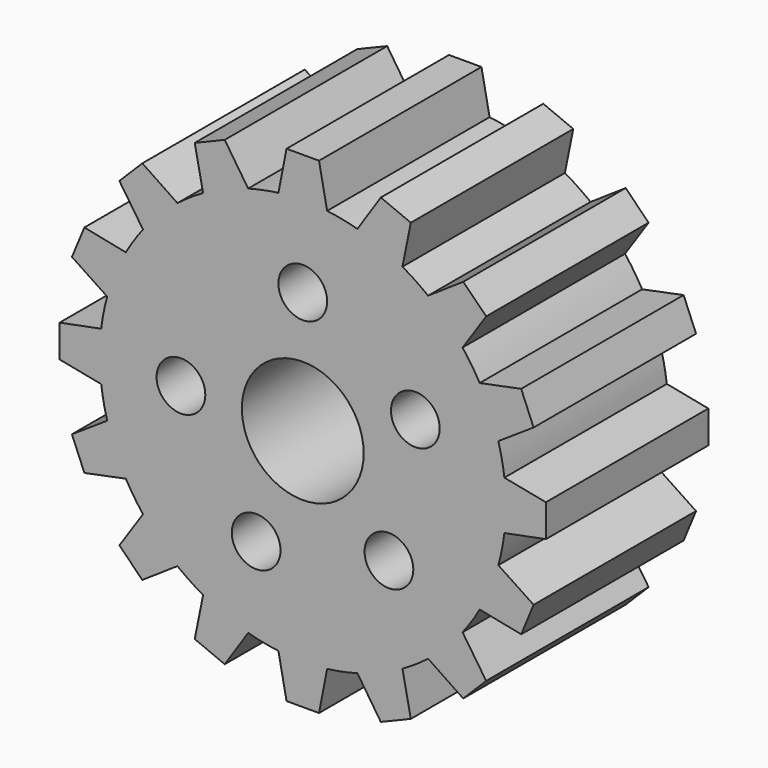
from build123d import *

# Parameters (mm, degrees)
F0_R     = 3
F0_R_2   = 7.5
F1_DEPTH = 25


with BuildPart() as f1:
    # F0 (on Front) → F1 (new body)
    with BuildSketch(Plane.XZ):
        with BuildLine():
            ThreePointArc((24.819347, -3), (24.954796, -1.502717), (25, 0))
            ThreePointArc((25, 0), (24.954796, 1.502717), (24.819347, 3))
            ThreePointArc((24.819347, 3), (24.519632, 4.877258), (24.078137, 6.726314))
            ThreePointArc((24.078137, 6.726314), (23.096988, 9.567086), (21.782037, 12.269592))
            ThreePointArc((21.782037, 12.269592), (20.78674, 13.889256), (19.671249, 15.428608))
            ThreePointArc((19.671249, 15.428608), (17.67767, 17.67767), (15.428608, 19.671249))
            ThreePointArc((15.428608, 19.671249), (13.889256, 20.78674), (12.269592, 21.782037))
            ThreePointArc((12.269592, 21.782037), (9.567086, 23.096988), (6.726314, 24.078137))
            ThreePointArc((6.726314, 24.078137), (4.877258, 24.519632), (3, 24.819347))
            ThreePointArc((3, 24.819347), (0, 25), (-3, 24.819347))
            ThreePointArc((-3, 24.819347), (-4.877258, 24.519632), (-6.726314, 24.078137))
            ThreePointArc((-6.726314, 24.078137), (-9.567086, 23.096988), (-12.269592, 21.782037))
            ThreePointArc((-12.269592, 21.782037), (-13.889256, 20.78674), (-15.428608, 19.671249))
            ThreePointArc((-15.428608, 19.671249), (-17.67767, 17.67767), (-19.671249, 15.428608))
            ThreePointArc((-19.671249, 15.428608), (-20.78674, 13.889256), (-21.782037, 12.269592))
            ThreePointArc((-21.782037, 12.269592), (-23.096988, 9.567086), (-24.078137, 6.726314))
            ThreePointArc((-24.078137, 6.726314), (-24.519632, 4.877258), (-24.819347, 3))
            ThreePointArc((-24.819347, 3), (-25, 0), (-24.819347, -3))
            ThreePointArc((-24.819347, -3), (-24.519632, -4.877258), (-24.078137, -6.726314))
            ThreePointArc((-24.078137, -6.726314), (-23.096988, -9.567086), (-21.782037, -12.269592))
            ThreePointArc((-21.782037, -12.269592), (-20.78674, -13.889256), (-19.671249, -15.428608))
            ThreePointArc((-19.671249, -15.428608), (-17.67767, -17.67767), (-15.428608, -19.671249))
            ThreePointArc((-15.428608, -19.671249), (-13.889256, -20.78674), (-12.269592, -21.782037))
            ThreePointArc((-12.269592, -21.782037), (-9.567086, -23.096988), (-6.726314, -24.078137))
            ThreePointArc((-6.726314, -24.078137), (-4.877258, -24.519632), (-3, -24.819347))
            ThreePointArc((-3, -24.819347), (0, -25), (3, -24.819347))
            ThreePointArc((3, -24.819347), (4.877258, -24.519632), (6.726314, -24.078137))
            ThreePointArc((6.726314, -24.078137), (9.567086, -23.096988), (12.269592, -21.782037))
            ThreePointArc((12.269592, -21.782037), (13.889256, -20.78674), (15.428608, -19.671249))
            ThreePointArc((15.428608, -19.671249), (17.67767, -17.67767), (19.671249, -15.428608))
            ThreePointArc((19.671249, -15.428608), (20.78674, -13.889256), (21.782037, -12.269592))
            ThreePointArc((21.782037, -12.269592), (23.096988, -9.567086), (24.078137, -6.726314))
            ThreePointArc((24.078137, -6.726314), (24.519632, -4.877258), (24.819347, -3))
        make_face()
        with Locations((-15, 0)):
            Circle(F0_R, mode=Mode.SUBTRACT)
        with Locations((-5.740251, -13.858193)):
            Circle(F0_R, mode=Mode.SUBTRACT)
        Circle(F0_R_2, mode=Mode.SUBTRACT)
        with Locations((10.606602, -10.606602)):
            Circle(F0_R, mode=Mode.SUBTRACT)
        with Locations((0, 15)):
            Circle(F0_R, mode=Mode.SUBTRACT)
        with Locations((13.858193, 5.740251)):
            Circle(F0_R, mode=Mode.SUBTRACT)
        with BuildLine():
            ThreePointArc((24.819347, 3), (24.954796, 1.502717), (25, 0))
            ThreePointArc((25, 0), (24.954796, -1.502717), (24.819347, -3))
            Line((24.819347, -3), (29.933259, -2))
            Line((29.933259, -2), (29.933259, 2))
            Line((29.933259, 2), (24.819347, 3))
        make_face()
        with BuildLine():
            ThreePointArc((21.782037, 12.269592), (23.096988, 9.567086), (24.078137, 6.726314))
            Line((24.078137, 6.726314), (28.420092, 9.607203))
            Line((28.420092, 9.607203), (26.889359, 13.302721))
            Line((26.889359, 13.302721), (21.782037, 12.269592))
        make_face()
        with BuildLine():
            Line((28.420092, -9.607203), (24.078137, -6.726314))
            ThreePointArc((24.078137, -6.726314), (23.096988, -9.567086), (21.782037, -12.269592))
            Line((21.782037, -12.269592), (26.889359, -13.302721))
            Line((26.889359, -13.302721), (28.420092, -9.607203))
        make_face()
        with BuildLine():
            ThreePointArc((15.428608, 19.671249), (17.67767, 17.67767), (19.671249, 15.428608))
            Line((19.671249, 15.428608), (22.580224, 19.751797))
            Line((22.580224, 19.751797), (19.751797, 22.580224))
            Line((19.751797, 22.580224), (15.428608, 19.671249))
        make_face()
        with BuildLine():
            Line((22.580224, -19.751797), (19.671249, -15.428608))
            ThreePointArc((19.671249, -15.428608), (17.67767, -17.67767), (15.428608, -19.671249))
            Line((15.428608, -19.671249), (19.751797, -22.580224))
            Line((19.751797, -22.580224), (22.580224, -19.751797))
        make_face()
        with BuildLine():
            ThreePointArc((6.726314, 24.078137), (9.567086, 23.096988), (12.269592, 21.782037))
            Line((12.269592, 21.782037), (13.302721, 26.889359))
            Line((13.302721, 26.889359), (9.607203, 28.420092))
            Line((9.607203, 28.420092), (6.726314, 24.078137))
        make_face()
        with BuildLine():
            Line((13.302721, -26.889359), (12.269592, -21.782037))
            ThreePointArc((12.269592, -21.782037), (9.567086, -23.096988), (6.726314, -24.078137))
            Line((6.726314, -24.078137), (9.607203, -28.420092))
            Line((9.607203, -28.420092), (13.302721, -26.889359))
        make_face()
        with BuildLine():
            ThreePointArc((-3, 24.819347), (0, 25), (3, 24.819347))
            Line((3, 24.819347), (2, 29.933259))
            Line((2, 29.933259), (-2, 29.933259))
            Line((-2, 29.933259), (-3, 24.819347))
        make_face()
        with BuildLine():
            Line((2, -29.933259), (3, -24.819347))
            ThreePointArc((3, -24.819347), (0, -25), (-3, -24.819347))
            Line((-3, -24.819347), (-2, -29.933259))
            Line((-2, -29.933259), (2, -29.933259))
        make_face()
        with BuildLine():
            ThreePointArc((-12.269592, 21.782037), (-9.567086, 23.096988), (-6.726314, 24.078137))
            Line((-6.726314, 24.078137), (-9.607203, 28.420092))
            Line((-9.607203, 28.420092), (-13.302721, 26.889359))
            Line((-13.302721, 26.889359), (-12.269592, 21.782037))
        make_face()
        with BuildLine():
            Line((-9.607203, -28.420092), (-6.726314, -24.078137))
            ThreePointArc((-6.726314, -24.078137), (-9.567086, -23.096988), (-12.269592, -21.782037))
            Line((-12.269592, -21.782037), (-13.302721, -26.889359))
            Line((-13.302721, -26.889359), (-9.607203, -28.420092))
        make_face()
        with BuildLine():
            ThreePointArc((-19.671249, 15.428608), (-17.67767, 17.67767), (-15.428608, 19.671249))
            Line((-15.428608, 19.671249), (-19.751797, 22.580224))
            Line((-19.751797, 22.580224), (-22.580224, 19.751797))
            Line((-22.580224, 19.751797), (-19.671249, 15.428608))
        make_face()
        with BuildLine():
            Line((-19.751797, -22.580224), (-15.428608, -19.671249))
            ThreePointArc((-15.428608, -19.671249), (-17.67767, -17.67767), (-19.671249, -15.428608))
            Line((-19.671249, -15.428608), (-22.580224, -19.751797))
            Line((-22.580224, -19.751797), (-19.751797, -22.580224))
        make_face()
        with BuildLine():
            ThreePointArc((-24.078137, 6.726314), (-23.096988, 9.567086), (-21.782037, 12.269592))
            Line((-21.782037, 12.269592), (-26.889359, 13.302721))
            Line((-26.889359, 13.302721), (-28.420092, 9.607203))
            Line((-28.420092, 9.607203), (-24.078137, 6.726314))
        make_face()
        with BuildLine():
            Line((-26.889359, -13.302721), (-21.782037, -12.269592))
            ThreePointArc((-21.782037, -12.269592), (-23.096988, -9.567086), (-24.078137, -6.726314))
            Line((-24.078137, -6.726314), (-28.420092, -9.607203))
            Line((-28.420092, -9.607203), (-26.889359, -13.302721))
        make_face()
        with BuildLine():
            ThreePointArc((-24.819347, -3), (-25, 0), (-24.819347, 3))
            Line((-24.819347, 3), (-29.933259, 2))
            Line((-29.933259, 2), (-29.933259, -2))
            Line((-29.933259, -2), (-24.819347, -3))
        make_face()
    extrude(amount=F1_DEPTH)


solid = f1.part
